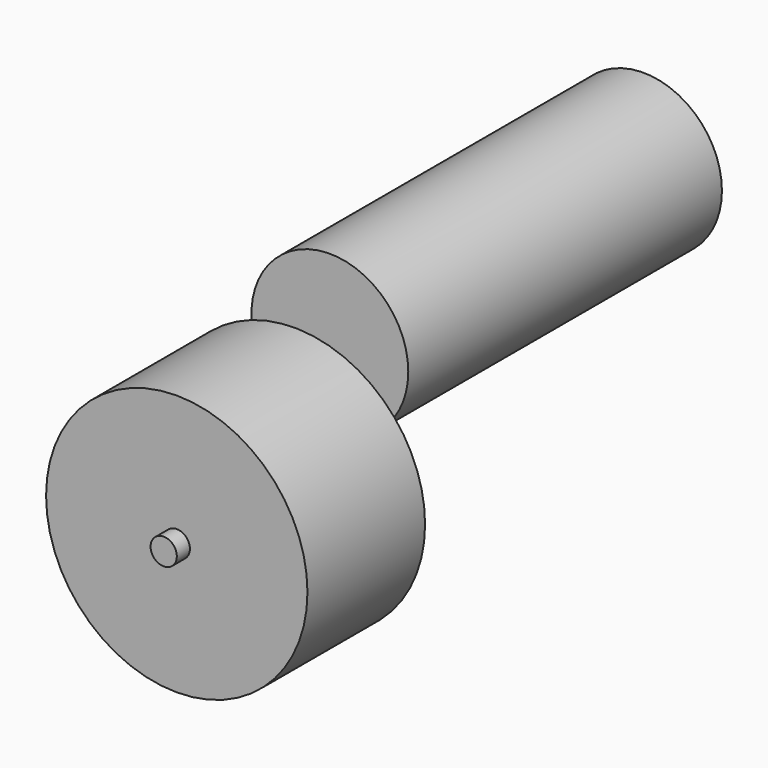
from build123d import *

# Parameters (mm, degrees)
F0_R     = 50.8
F1_DEPTH = 57.15
F2_R     = 30.48
F3_DEPTH = 152.4
F4_R     = 5.096165
F5_DEPTH = 6.35


with BuildPart() as f1:
    # F0 (on Front) → F1 (new body)
    with BuildSketch(Plane.XZ):
        with Locations((-64.75585, 60.43921)):
            Circle(F0_R)
    extrude(amount=F1_DEPTH)

    # F2 (on Front) → F3 (join)
    with BuildSketch(Plane.XZ):
        with Locations((-50.971899, 110.530347)):
            Circle(F2_R)
    extrude(amount=-F3_DEPTH)


with BuildPart() as f5:
    # F4 (on face) → F5 (new body)
    with BuildSketch(Plane.XZ.offset(57.15)):
        with Locations((-64.75585, 60.43921)):
            Circle(F4_R)
    extrude(amount=F5_DEPTH)


solid = Compound([f1.part, f5.part])
